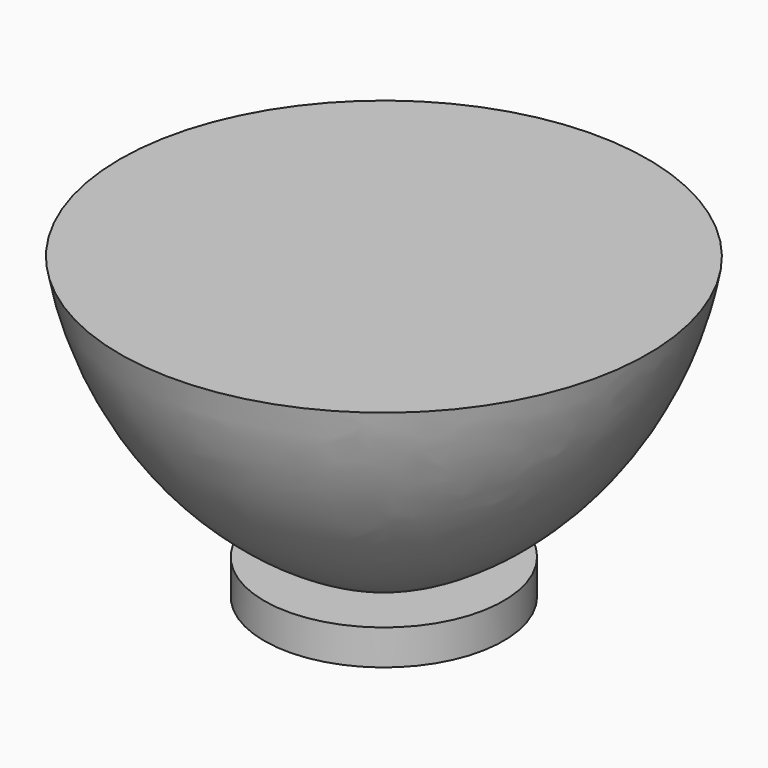
from build123d import *


with BuildPart() as f1:
    # F0 (on Front) → F1 (revolve)
    with BuildSketch(Plane.XZ):
        with BuildLine():
            Line((0, -16.684683), (0, 0))
            Line((0, 0), (-16.671333, 0))
            ThreePointArc((-16.671333, 0), (-12.265317, -9.918859), (-3.778836, -16.684683))
            Line((-3.778836, -16.684683), (0, -16.684683))
        make_face()
        Polygon((0, -18.907528), (0, -16.684683), (-3.778836, -16.684683), (-7.557672, -16.684683), (-7.557672, -18.907528), align=None)
    revolve(axis=Axis((0, 0, -8.342342), (0, 0, -1)))


solid = f1.part
